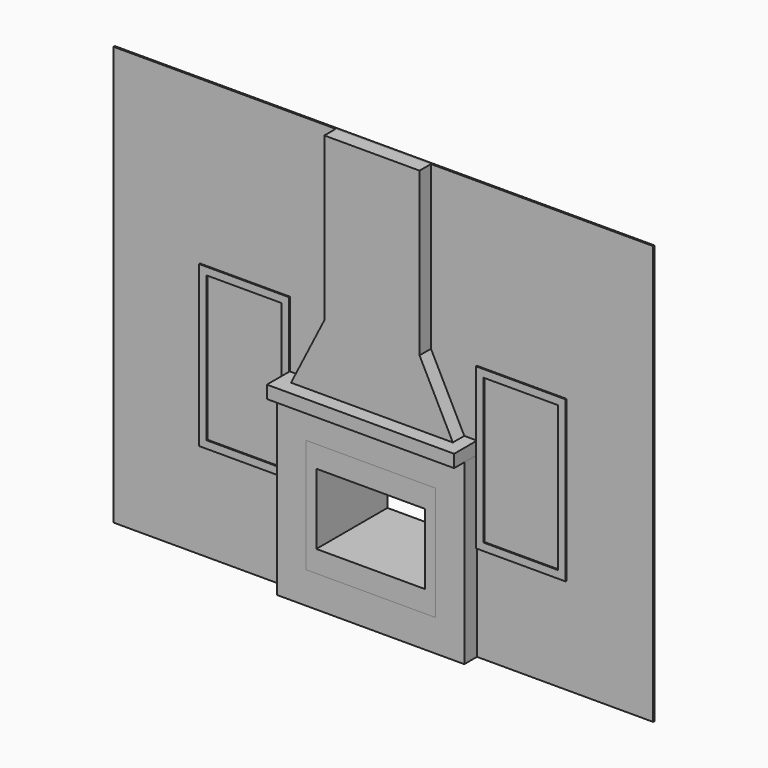
from build123d import *

# Parameters (mm, degrees)
F1_W      = 1498.6
F1_H      = 127
F2_DEPTH  = 1422.4
F3_W      = 4318
F3_H      = 12.7
F4_DEPTH  = 3352.8
F5_W      = 1498.6
F5_H      = 101.6
F6_DEPTH  = 228.6
F11_W     = 717.55
F11_H     = 1282.7
F11_W_2   = 596.9
F11_H_2   = 1162.05
F12_DEPTH = 25.4
F8_W      = 762
F8_H      = 1828.8
F17_DEPTH = 114.3
F18_DEPTH = 114.3
F19_DEPTH = 114.3
F20_DEPTH = 114.3
F21_DEPTH = 177.8
F22_DEPTH = 9.525
F23_W     = 1038.225
F23_H     = 911.225
F23_W_2   = 869.95
F23_H_2   = 565.15
F24_DEPTH = 711.2
F25_DEPTH = 711.2


with BuildPart() as f2:
    # F1 (on Top) → F2 (new body)
    with BuildSketch(Plane.XY):
        with Locations((0, -63.5)):
            Rectangle(F1_W, F1_H)
    extrude(amount=F2_DEPTH)


with BuildPart() as f4:
    # F3 (on Top) → F4 (new body)
    with BuildSketch(Plane.XY):
        with Locations((0, 6.35)):
            Rectangle(F3_W, F3_H)
    extrude(amount=F4_DEPTH)

    # F11 (on face) → F12 (cut)
    with BuildSketch(Plane.XZ):
        with Locations((-1108.075, 1409.7)):
            Rectangle(F11_W, F11_H)
        with Locations((-1108.075, 1409.7)):
            Rectangle(F11_W_2, F11_H_2, mode=Mode.SUBTRACT)
        with Locations((1108.075, 1409.7)):
            Rectangle(F11_W, F11_H)
        with Locations((1108.075, 1409.7)):
            Rectangle(F11_W_2, F11_H_2, mode=Mode.SUBTRACT)
    extrude(amount=-F12_DEPTH, mode=Mode.SUBTRACT)


with BuildPart() as f6:
    # F5 (on face) → F6 (new body)
    with BuildSketch(Plane.XZ):
        with Locations((0, 1473.2)):
            Rectangle(F5_W, F5_H)
    extrude(amount=F6_DEPTH)


with BuildPart() as f17:
    # F8 (on face) → F17 (new body)
    with BuildSketch(Plane.XZ):
        with Locations((0, 2438.4)):
            Rectangle(F8_W, F8_H)
    extrude(amount=F17_DEPTH)


with BuildPart() as f18:
    # F14 (on face) → F18 (new body)
    with BuildSketch(Plane.XZ):
        Polygon((-381, 1790.7), (-647.7, 1524), (647.7, 1524), (381, 1790.7), (381, 3352.8), (-381, 3352.8), align=None)
    extrude(amount=F18_DEPTH)


with BuildPart() as f19:
    # F15 (on face) → F19 (new body)
    with BuildSketch(Plane.XZ):
        Polygon((-381, 1879.6), (-647.7, 1524), (647.7, 1524), (381, 1879.6), (381, 3352.8), (-381, 3352.8), align=None)
    extrude(amount=F19_DEPTH)


with BuildPart() as f20:
    # F16 (on face) → F20 (new body)
    with BuildSketch(Plane.XZ):
        Polygon((381, 3352.8), (-381, 3352.8), (-381, 2051.05), (-647.7, 1524), (647.7, 1524), (381, 2051.05), align=None)
    extrude(amount=F20_DEPTH)


with BuildPart() as f21:
    # F11 (on face) → F21 (new body)
    with BuildSketch(Plane.XZ):
        with Locations((-1108.075, 1409.7)):
            Rectangle(F11_W, F11_H)
        with Locations((-1108.075, 1409.7)):
            Rectangle(F11_W_2, F11_H_2, mode=Mode.SUBTRACT)
        with Locations((1108.075, 1409.7)):
            Rectangle(F11_W, F11_H)
        with Locations((1108.075, 1409.7)):
            Rectangle(F11_W_2, F11_H_2, mode=Mode.SUBTRACT)
    extrude(amount=-F21_DEPTH)


with BuildPart() as f22:
    # F11 (on face) → F22 (new body)
    with BuildSketch(Plane.XZ):
        with Locations((-1108.075, 1409.7)):
            Rectangle(F11_W, F11_H)
        with Locations((-1108.075, 1409.7)):
            Rectangle(F11_W_2, F11_H_2, mode=Mode.SUBTRACT)
        with Locations((1108.075, 1409.7)):
            Rectangle(F11_W, F11_H)
        with Locations((1108.075, 1409.7)):
            Rectangle(F11_W_2, F11_H_2, mode=Mode.SUBTRACT)
    extrude(amount=F22_DEPTH)


with BuildPart() as f24_tool:
    # F23 (on face) → F24 (new body)
    with BuildSketch(Plane.XZ.offset(127)):
        with Locations((0, 709.6125)):
            Rectangle(F23_W, F23_H)
        with Locations((0, 709.6125)):
            Rectangle(F23_W_2, F23_H_2, mode=Mode.SUBTRACT)
        with Locations((0, 709.6125)):
            Rectangle(F23_W_2, F23_H_2)
    extrude(amount=-F24_DEPTH)


with BuildPart() as f2_1:
    add(f2.part)

    # F24: cut by f24_tool
    add(f24_tool.part, mode=Mode.SUBTRACT)


with BuildPart() as f4_1:
    add(f4.part)

    # F24: cut by f24_tool
    add(f24_tool.part, mode=Mode.SUBTRACT)


with BuildPart() as f25:
    # F23 (on face) → F25 (new body)
    with BuildSketch(Plane.XZ.offset(127)):
        with Locations((0, 709.6125)):
            Rectangle(F23_W, F23_H)
        with Locations((0, 709.6125)):
            Rectangle(F23_W_2, F23_H_2, mode=Mode.SUBTRACT)
    extrude(amount=-F25_DEPTH)


solid = Compound([f6.part, f17.part, f18.part, f19.part, f20.part, f21.part, f22.part, f2_1.part, f4_1.part, f25.part])
